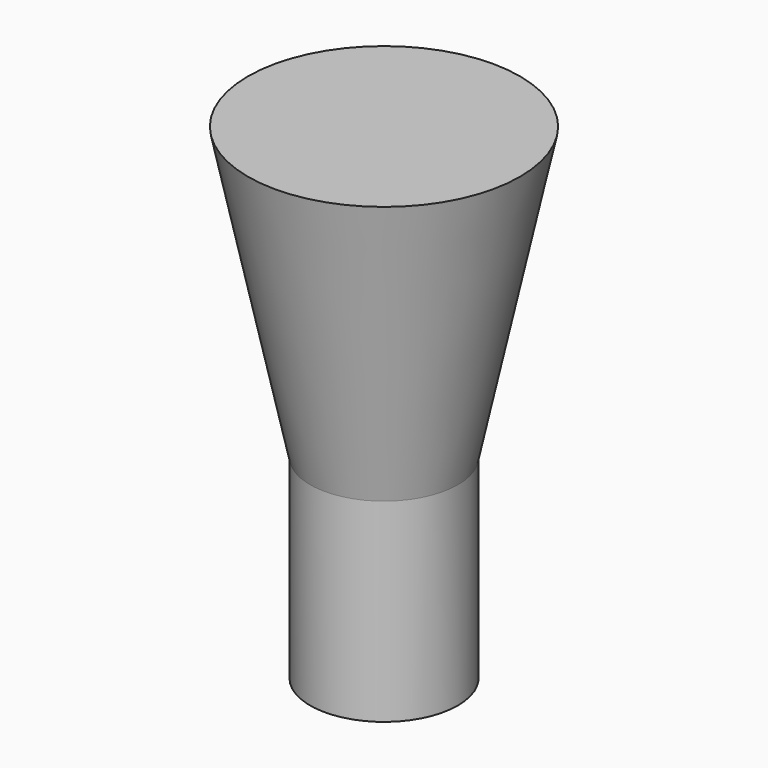
from build123d import *

# Parameters (mm, degrees)
F2_R     = 4.826
F3_DEPTH = 12.7


with BuildPart() as f1:
    # F0 (on Front) → F1 (revolve)
    with BuildSketch(Plane.XZ):
        Polygon((8.89, 40.898496), (0, 40.898496), (0, 21.848496), (4.826, 21.848496), align=None)
    revolve(axis=Axis((0, 0, 31.373496), (0, 0, -1)))

    # F2 (on face) → F3 (join)
    with BuildSketch(Plane(origin=(0, 0, 21.848496), x_dir=(1, 0, 0), z_dir=(0, 0, -1))):
        Circle(F2_R)
    extrude(amount=F3_DEPTH)


solid = f1.part
